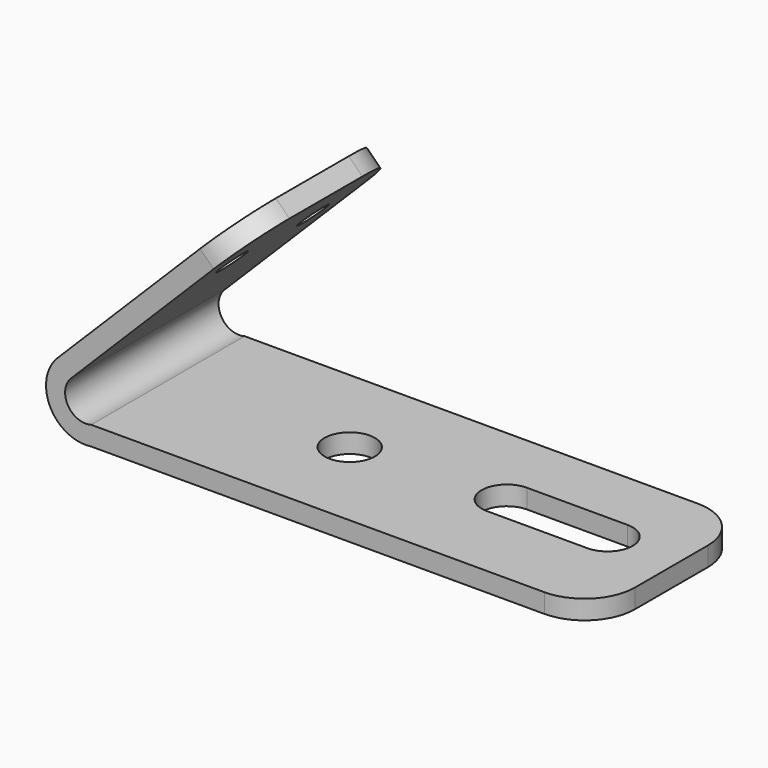
from build123d import *

# Parameters (mm, degrees)
F0_W     = 1270
F0_H     = 48.26
F1_DEPTH = 483.87
F2_R     = 127
F3_R     = 38.1
F4_DEPTH = 127
F5_R     = 63.5
F6_DEPTH = 50.8
F7_R     = 127


with BuildPart() as f1:
    # F0 (on Front) → F1 (new body)
    with BuildSketch(Plane.XZ):
        Rectangle(F0_W, F0_H)
        with BuildLine():
            ThreePointArc((-719.8287257737, 145.0706344887), (-738.4602241468, 29.8649791492), (-635, -24.13))
            Line((-635, -24.13), (-635, 24.13))
            ThreePointArc((-635, 24.13), (-693.8326988086, 47.9837165686), (-685.7037525136, 110.9456612286))
            Line((-685.7037525136, 110.9456612286), (-236.6909464602, 559.9584672821))
            Line((-236.6909464602, 559.9584672821), (-270.8159197202, 594.0834405421))
            Line((-270.8159197202, 594.0834405421), (-719.8287257737, 145.0706344887))
        make_face()
    extrude(amount=F1_DEPTH)

    # F2
    f2_edges = [f1.edges().sort_by_distance(p)[0] for p in [
        (-253.753433, -483.87, 577.020954),
        (-253.753433, 0, 577.020954),
    ]]
    fillet(f2_edges, radius=F2_R)

    # F3 (on face) → F4 (cut)
    with BuildSketch(Plane(origin=(-432.4496801312, 0, 432.4496801312), x_dir=(0, -1, 0), z_dir=(-0.7071067812, 0, 0.7071067812))):
        with Locations((114.3, 38.0846561105)):
            Circle(F3_R)
        with Locations((369.57, 38.0846561105)):
            Circle(F3_R)
    extrude(amount=-F4_DEPTH, mode=Mode.SUBTRACT)

    # F5 (on face) → F6 (cut)
    with BuildSketch(Plane.XY.offset(24.13)):
        with BuildLine():
            Line((203.4274212449, -284.3895672825), (457.4258095673, -284.3895672825))
            ThreePointArc((457.4258095673, -284.3895672825), (520.472977332, -220.663759187), (456.9725787551, -157.3895672825))
            Line((456.9725787551, -157.3895672825), (202.9741904327, -157.3895672825))
            ThreePointArc((202.9741904327, -157.3895672825), (139.4737860676, -221.1169928646), (203.4274212449, -284.3895672825))
        make_face()
        with Locations((-177.8, -240.2440756559)):
            Circle(F5_R)
    extrude(amount=-F6_DEPTH, mode=Mode.SUBTRACT)

    # F7
    f7_edges = [f1.edges().sort_by_distance(p)[0] for p in [
        (635, -483.87, 0),
        (635, 0, 0),
    ]]
    fillet(f7_edges, radius=F7_R)


solid = f1.part
